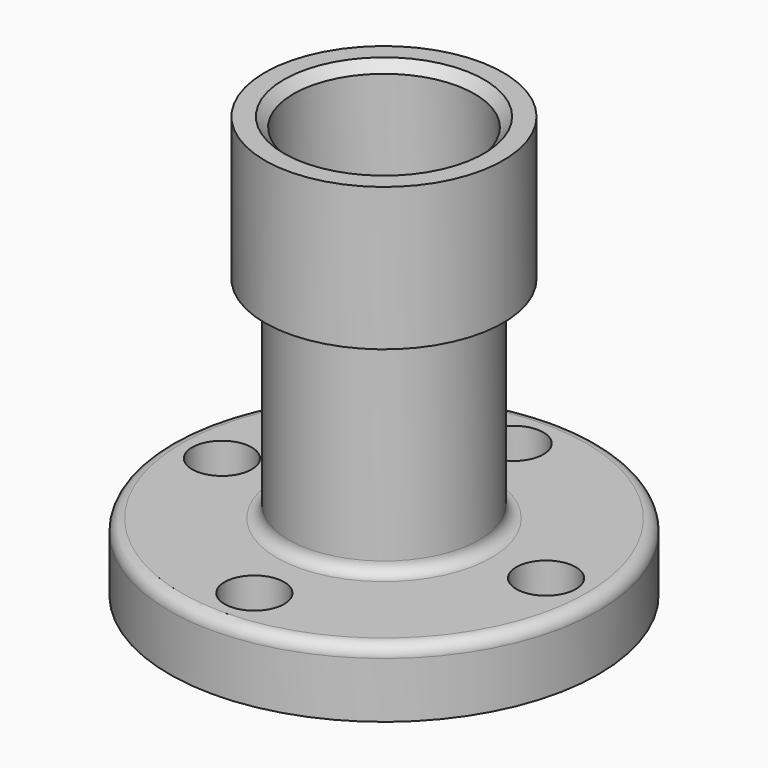
from build123d import *

# Parameters (mm, degrees)
F2_SIZE  = 2
F3_R     = 2.5
F4_R     = 6.25
F5_DEPTH = 14.2


with BuildPart() as f1:
    # F0 (on Front) → F1 (revolve)
    with BuildSketch(Plane.XZ):
        Polygon((-20, 58.4), (-20, 14.2), (-45, 14.2), (-45, 0), (-15, 0), (-15, 64.4), (-19, 64.4), (-19, 88.4), (-25, 88.4), (-25, 58.4), align=None)
    revolve(axis=Axis((0, 0, 34.592547), (0, 0, 1)))

    # F2
    f2_edges = [f1.edges().sort_by_distance(p)[0] for p in [
        (15, 0, 0),
        (19, 0, 88.4),
        (19, 0, 64.4),
    ]]
    chamfer(f2_edges, length=F2_SIZE)

    # F3
    f3_edges = [f1.edges().sort_by_distance(p)[0] for p in [
        (20, 0, 14.2),
        (20, 0, 58.4),
        (45, 0, 14.2),
    ]]
    fillet(f3_edges, radius=F3_R)

    # F4 (on face) → F5 (cut, through all)
    with BuildSketch(Plane.XY.offset(14.2)):
        with Locations((0, 34)):
            Circle(F4_R)
        with Locations((-34, 0)):
            Circle(F4_R)
        with Locations((0, -34)):
            Circle(F4_R)
        with Locations((34, 0)):
            Circle(F4_R)
    extrude(amount=-F5_DEPTH, mode=Mode.SUBTRACT)


solid = f1.part
